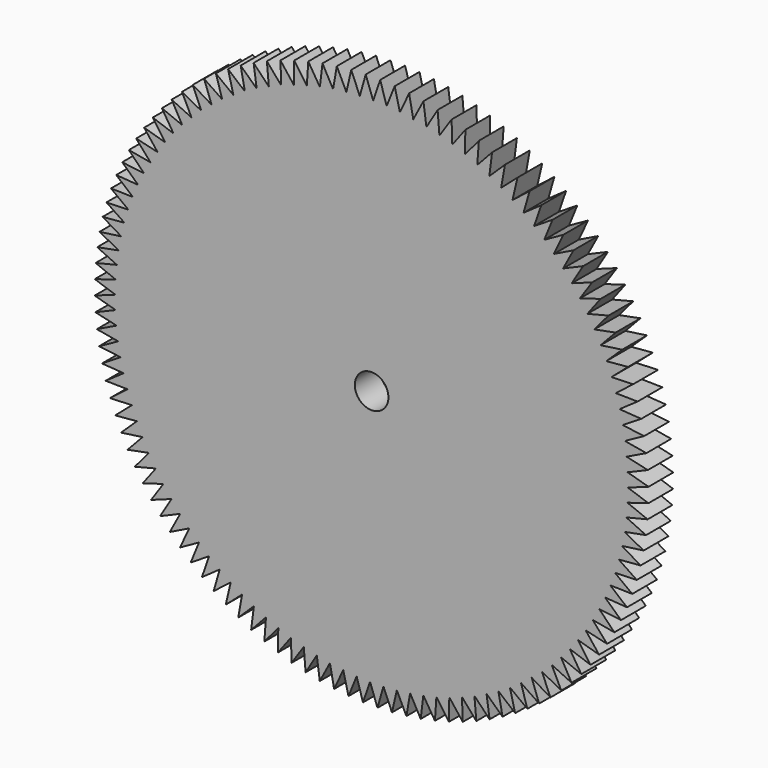
from build123d import *

# Parameters (mm, degrees)
F0_R     = 50.2461671942
F0_R_2   = 3.3528
F1_DEPTH = 6.35
F4_DEPTH = 6.1877146363
F5_COUNT = 120


with BuildPart() as f1:
    # F0 (on Front) → F1 (new body)
    with BuildSketch(Plane.XZ):
        Circle(F0_R)
        Circle(F0_R_2, mode=Mode.SUBTRACT)
    extrude(amount=F1_DEPTH)



with BuildPart() as f4:
    # F2 (on face) → F4 (new body)
    with BuildSketch(Plane.XZ.offset(6.35)):
        with BuildLine():
            Line((1.7220410518, 55.2767775953), (0, 50.2461671942))
            ThreePointArc((0, 50.2461671942), (1.6382821647, 50.2194519012), (3.274822219, 50.1393344305))
            Line((3.274822219, 50.1393344305), (1.7220410518, 55.2767775953))
        make_face()
    extrude(amount=-F4_DEPTH)


with BuildPart() as f1_1:
    add(f1.part)

    add(f4.part)  # F5 merges F4
    # F5: F4 ×120 about axis
    f5_axis = Axis((0, -17.0745700598, 0), (0, -1, 0))
    for i in range(1, F5_COUNT):
        add(f4.part.rotate(f5_axis, i * 360 / F5_COUNT))


solid = f1_1.part
